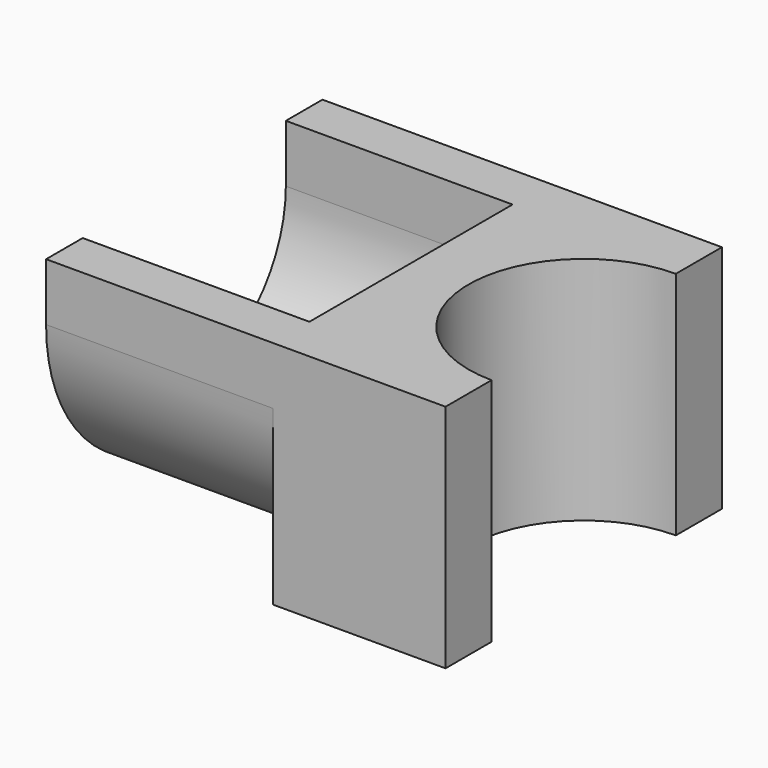
from build123d import *

# Parameters (mm, degrees)
F1_DEPTH = 25.4
F3_DEPTH = 25


with BuildPart() as f1:
    # F0 (on Top) → F1 (new body)
    with BuildSketch(Plane.XY):
        with BuildLine():
            Line((12.7, 19.05), (-6.35, 19.05))
            Line((-6.35, 19.05), (-6.35, -19.05))
            Line((-6.35, -19.05), (12.7, -19.05))
            Line((12.7, -19.05), (12.7, -12.7))
            ThreePointArc((12.7, -12.7), (0, 0), (12.7, 12.7))
            Line((12.7, 12.7), (12.7, 19.05))
        make_face()
    extrude(amount=F1_DEPTH)

    # F2 (on face) → F3 (join)
    with BuildSketch(Plane(origin=(-6.35, 0, 0), x_dir=(0, -1, 0), z_dir=(-1, 0, 0))):
        with BuildLine():
            Line((-19.05, 25.4), (-19.05, 19.05))
            ThreePointArc((-19.05, 19.05), (0, 0), (19.05, 19.05))
            Line((19.05, 19.05), (19.05, 25.4))
            Line((19.05, 25.4), (14, 25.4))
            Line((14, 25.4), (14, 19.05))
            ThreePointArc((14, 19.05), (0, 5.05), (-14, 19.05))
            Line((-14, 19.05), (-14, 25.4))
            Line((-14, 25.4), (-19.05, 25.4))
        make_face()
    extrude(amount=F3_DEPTH)


solid = f1.part
